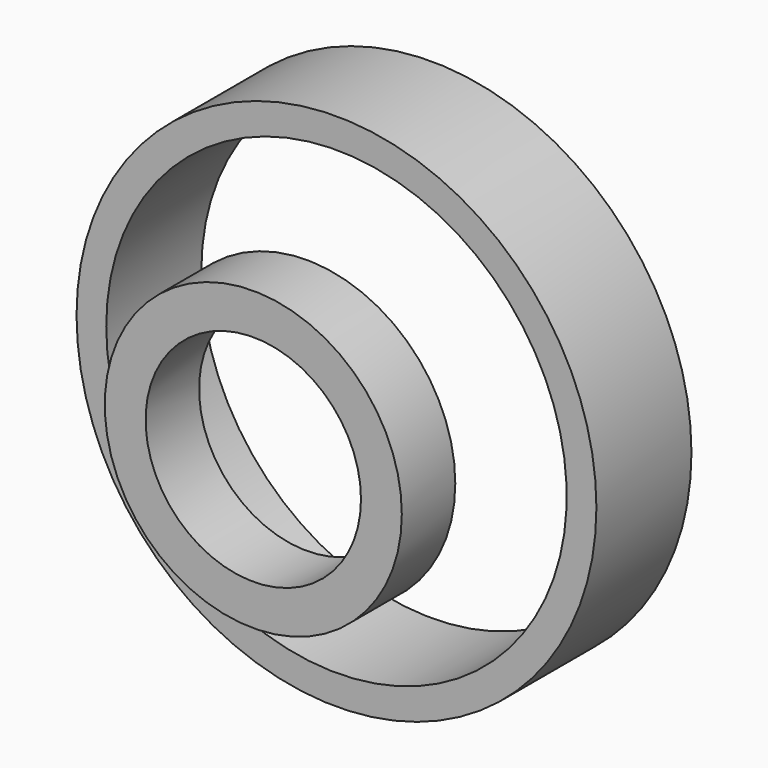
from build123d import *

# Parameters (mm, degrees)
F0_R     = 17.5
F1_DEPTH = 8
F2_R     = 10
F3_DEPTH = 7
F4_R     = 7.25
F5_DEPTH = 25
F6_R     = 15.5
F7_DEPTH = 10.5


with BuildPart() as f1:
    # F0 (on Front) → F1 (new body)
    with BuildSketch(Plane.XZ):
        Circle(F0_R)
    extrude(amount=F1_DEPTH)

    # F2 (on face) → F3 (join)
    with BuildSketch(Plane.XZ.offset(8)):
        Circle(F2_R)
    extrude(amount=F3_DEPTH)

    # F4 (on face) → F5 (cut)
    with BuildSketch(Plane.XZ.offset(15)):
        Circle(F4_R)
    extrude(amount=-F5_DEPTH, mode=Mode.SUBTRACT)

    # F6 (on face) → F7 (cut)
    with BuildSketch(Plane(origin=(0, 0, 0), x_dir=(-1, 0, 0), z_dir=(0, 1, 0))):
        Circle(F6_R)
    extrude(amount=-F7_DEPTH, mode=Mode.SUBTRACT)


solid = f1.part
